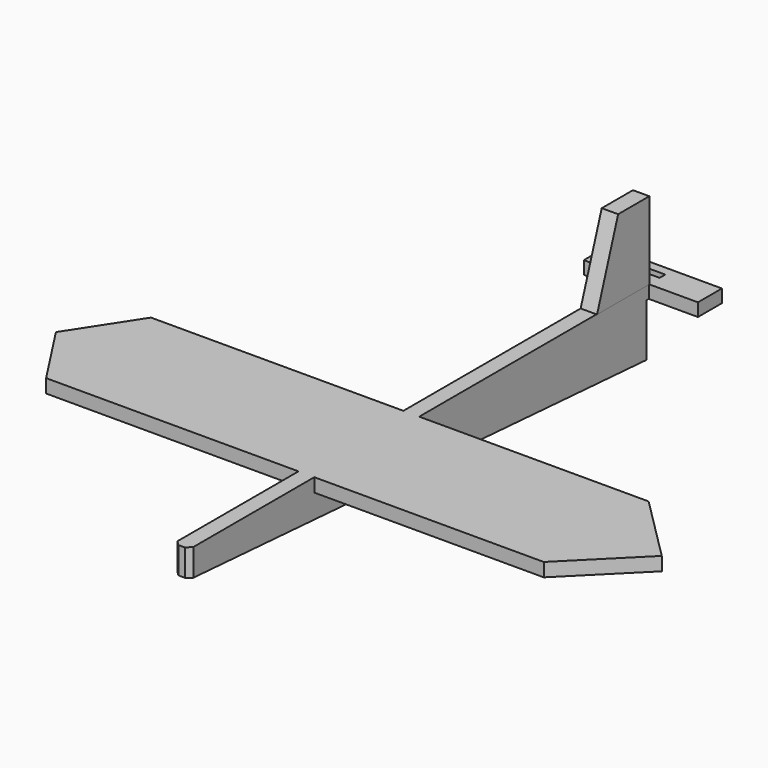
from build123d import *

# Parameters (mm, degrees)
F0_W      = 12.2642048969
F0_H      = 10.5410516262
F0_H_2    = 222.347571218
F0_H_3    = 101.6
F0_W_2    = 228.6
F1_DEPTH  = 50.8
F2_W      = 101.6
F2_H      = 40.2828603983
F3_DEPTH  = 228.6
F5_DEPTH  = 228.6
F7_DEPTH  = 25.4
F8_W      = 88.4642048969
F8_H      = 40.7456643879
F9_DEPTH  = 25.4
F11_DEPTH = 12.7
F13_DEPTH = 25.4
F15_DEPTH = 25.4
F17_DEPTH = 25.4


with BuildPart() as f1:
    # F0 (on Top) → F1 (new body)
    with BuildSketch(Plane.XY):
        Polygon((0, 399.0824818611), (0, 404.5822042346), (12.2642048969, 404.5822042346), (12.2642048969, 403.4197628498), (12.2642048969, 399.0824818611), (12.2642048969, 388.5414302349), (37.6642048969, 388.5414302349), (50.3642048969, 388.5414302349), (50.3642048969, 399.0824818611), (50.3642048969, 411.7824818611), (-38.1, 411.7824818611), (-38.1, 399.0824818611), (-38.1, 388.5414302349), (-25.4, 388.5414302349), (0, 388.5414302349), align=None)
        with Locations((6.1321024484, 393.811956048)):
            Rectangle(F0_W, F0_H)
        with Locations((6.1321024484, 277.3676446259)):
            Rectangle(F0_W, F0_H_2)
        with Locations((6.1321024484, 115.3938590169)):
            Rectangle(F0_W, F0_H_3)
        with Locations((-114.3, 115.3938590169)):
            Rectangle(F0_W_2, F0_H_3)
        Polygon((12.2642048969, 64.5938590169), (0, 64.5938590169), (0, -52.6177957654), (3.5921024484, -56.2098982138), (8.6721024484, -56.2098982138), (12.2642048969, -52.6177957654), align=None)
        with Locations((126.5642048969, 115.3938590169)):
            Rectangle(F0_W_2, F0_H_3)
    extrude(amount=F1_DEPTH)

    # F2 (on face) → F3 (cut)
    with BuildSketch(Plane.YZ.offset(240.8642048969)):
        with Locations((115.3938590169, 20.1414301991)):
            Rectangle(F2_W, F2_H)
    extrude(amount=-F3_DEPTH, mode=Mode.SUBTRACT)

    # F4 (on face) → F5 (cut)
    with BuildSketch(Plane(origin=(-228.6, 0, 0), x_dir=(0, -1, 0), z_dir=(-1, 0, 0))):
        Polygon((-64.5938590169, 40.2844), (-166.1938590169, 40.8619193254), (-166.1938590169, 40.2844), align=None)
        Polygon((-166.1938590169, 40.2844), (-166.1938590169, 40.8619193254), (-166.4173752069, 40.8631898463), (-166.1938590169, 0), (-64.5938590169, 0), (-64.5938590169, 40.2844), align=None)
    extrude(amount=-F5_DEPTH, mode=Mode.SUBTRACT)

    # F6 (on face) → F7 (cut)
    with BuildSketch(Plane.YZ):
        Polygon((404.5822042346, 0), (865.3968534112, 33.1447981298), (56.4681179821, 0), align=None)
    extrude(amount=-F7_DEPTH, mode=Mode.SUBTRACT)

    # F8 (on face) → F9 (cut)
    with BuildSketch(Plane(origin=(0, 411.7824818611, 0), x_dir=(-1, 0, 0), z_dir=(0, 1, 0))):
        with Locations((-6.1321024484, 20.372832194)):
            Rectangle(F8_W, F8_H)
    extrude(amount=-F9_DEPTH, mode=Mode.SUBTRACT)

    # F12 (on face) → F13 (cut)
    with BuildSketch(Plane.YZ.offset(12.2642048969)):
        Polygon((386.3824818611, 0), (-56.5404929221, 30.106337741), (-56.5404929221, 0), align=None)
    extrude(amount=-F13_DEPTH, mode=Mode.SUBTRACT)

    # F14 (on face) → F15 (cut)
    with BuildSketch(Plane.XY.offset(50.8)):
        Polygon((-195.58, 64.5938590169), (-228.6, 115.3938590169), (-228.6, 64.5938590169), align=None)
        Polygon((-228.6, 115.3938590169), (-195.58, 166.1938590169), (-228.6, 166.1938590169), align=None)
    extrude(amount=-F15_DEPTH, mode=Mode.SUBTRACT)

    # F16 (on face) → F17 (cut)
    with BuildSketch(Plane.XY.offset(50.8)):
        Polygon((240.8642048969, 166.1938590169), (190.0642048969, 166.1938590169), (240.8642048969, 115.3938590169), align=None)
        Polygon((240.8642048969, 64.5938590169), (240.8642048969, 115.3938590169), (190.0642048969, 64.5938590169), align=None)
    extrude(amount=-F17_DEPTH, mode=Mode.SUBTRACT)


with BuildPart() as f11:
    # F10 (on face) → F11 (new body)
    with BuildSketch(Plane(origin=(0, 0, 0), x_dir=(0, -1, 0), z_dir=(-1, 0, 0))):
        Polygon((-388.5414302349, 50.8), (-337.903380394, 50.8), (-358.3284356136, 110.9254282253), (-388.5414302349, 110.9254282253), (-388.5414302349, 72.186909616), align=None)
    extrude(amount=-F11_DEPTH)


solid = Compound([f1.part, f11.part])
